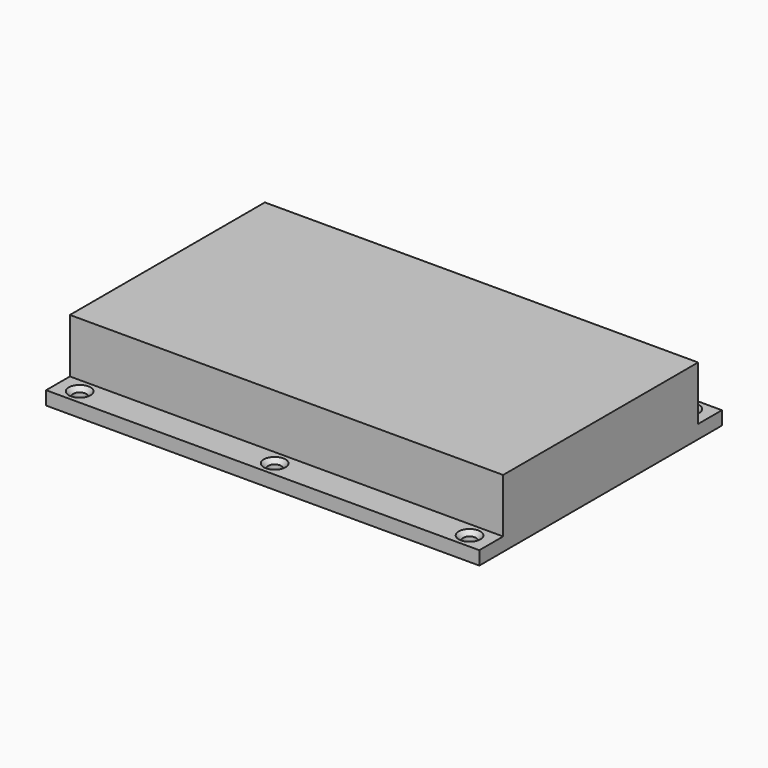
from build123d import *

# Parameters (mm, degrees)
PAD001_DEPTH     = 5
SKETCH002_W      = 80
SKETCH002_H      = 45
SKETCH002_W_2    = 35
SKETCH002_H_2    = 40
PAD002_DEPTH     = 5
SKETCH_W         = 80
SKETCH_H         = 45
PAD_DEPTH        = 5
SKETCH005_W      = 80
SKETCH005_H      = 56
SKETCH005_W_2    = 35
SKETCH005_H_2    = 40
PAD004_DEPTH     = 2.5
HOLE_D           = 2.4
HOLE_DEPTH       = 198.867435
HOLE_CSINK_D     = 4
HOLE_CSINK_ANGLE = 90
PAD003_DEPTH     = 5


with BuildPart() as body001:
    # Sketch001 → Pad001 (new body)
    with BuildSketch(Plane.XY):
        with BuildLine():
            Line((37.5, -15), (37.5, 15))
            ThreePointArc((37.5, 15), (36.035534, 18.535534), (32.5, 20))
            Line((32.5, 20), (7.5, 20))
            ThreePointArc((7.5, 20), (3.964466, 18.535534), (2.5, 15))
            Line((2.5, 15), (2.5, -15))
            ThreePointArc((2.5, -15), (3.964466, -18.535534), (7.5, -20))
            Line((7.5, -20), (32.5, -20))
            ThreePointArc((32.5, -20), (36.035534, -18.535534), (37.5, -15))
        make_face()
    extrude(amount=PAD001_DEPTH)


with BuildPart() as cuerpo:
    # Sketch002 (on Sketch) → Pad002 (new body)
    with BuildSketch(Plane.XY):
        Rectangle(SKETCH002_W, SKETCH002_H)
        with Locations((-20, 0)):
            Rectangle(SKETCH002_W_2, SKETCH002_H_2, mode=Mode.SUBTRACT)
        with Locations((20, 0)):
            Rectangle(SKETCH002_W_2, SKETCH002_H_2, mode=Mode.SUBTRACT)
    extrude(amount=PAD002_DEPTH)

    # Sketch (on Face14 of Pad002) → Pad (join)
    with BuildSketch(Plane.XY.offset(5)):
        Rectangle(SKETCH_W, SKETCH_H)
    extrude(amount=PAD_DEPTH)

    # Sketch005 (on Face4 of Pad) → Pad004 (join)
    with BuildSketch(Plane(origin=(0, 0, 0), x_dir=(1, 0, 0), z_dir=(0, 0, -1))):
        Rectangle(SKETCH005_W, SKETCH005_H)
        with Locations((-20, 0)):
            Rectangle(SKETCH005_W_2, SKETCH005_H_2, mode=Mode.SUBTRACT)
        with Locations((20, 0)):
            Rectangle(SKETCH005_W_2, SKETCH005_H_2, mode=Mode.SUBTRACT)
    extrude(amount=PAD004_DEPTH)

    # Hole
    with Locations(Plane.XY):
        with Locations((-36, -25.25), (0, -25.25), (36, -25.25), (-36, 25.25), (0, 25.25), (36, 25.25)):
            CounterSinkHole(HOLE_D / 2, HOLE_CSINK_D / 2, depth=HOLE_DEPTH, counter_sink_angle=HOLE_CSINK_ANGLE)


with BuildPart() as body003:
    # Sketch003 → Pad003 (new body)
    with BuildSketch(Plane.XY):
        with BuildLine():
            Line((-2.5, -15), (-2.5, 15))
            ThreePointArc((-2.5, 15), (-3.964466, 18.535534), (-7.5, 20))
            Line((-7.5, 20), (-32.5, 20))
            ThreePointArc((-32.5, 20), (-36.035534, 18.535534), (-37.5, 15))
            Line((-37.5, 15), (-37.5, -15))
            ThreePointArc((-37.5, -15), (-36.035534, -18.535534), (-32.5, -20))
            Line((-32.5, -20), (-7.5, -20))
            ThreePointArc((-7.5, -20), (-3.964466, -18.535534), (-2.5, -15))
        make_face()
    extrude(amount=PAD003_DEPTH)


solid = Compound([body001.part, cuerpo.part, body003.part])
